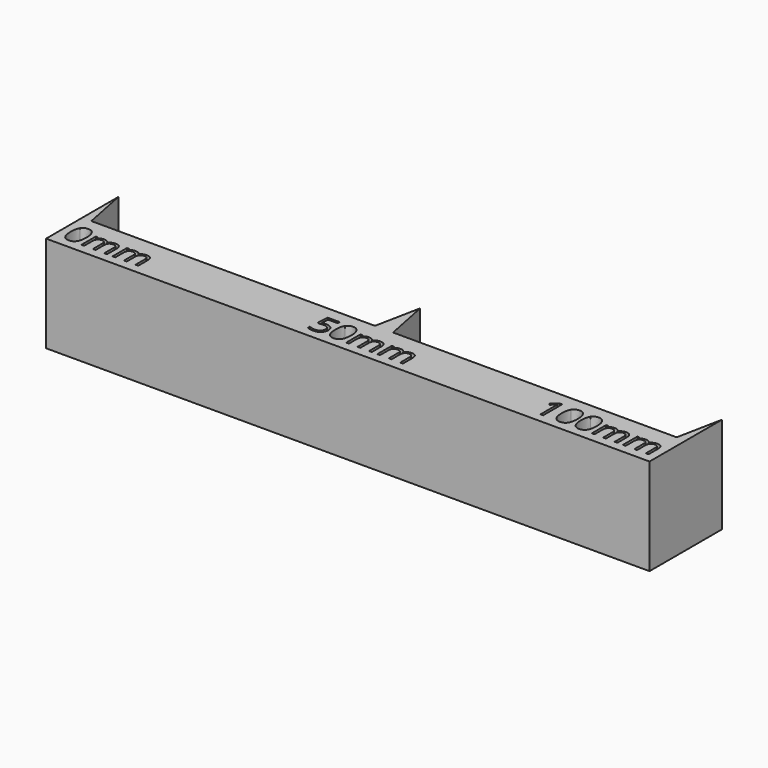
from build123d import *

# Parameters (mm, degrees)
F1_DEPTH = 16


with BuildPart() as f1:
    # F0 (on Top) → F1 (new body)
    with BuildSketch(Plane.XY):
        Polygon((0, 15), (0, 0), (100, 0), (100, 15), (98.5, 7.5), (51.5, 7.5), (50, 15), (48.5, 7.5), (1.5, 7.5), align=None)
        with BuildLine():
            add(Edge.make_bspline(
                [(3.5651041667, 5.0047743056), (3.9001736111, 4.4809027778), (3.9001736111, 3.4887152778)],
                knots=[0, 0, 0, 1, 1, 1], degree=2))
            add(Edge.make_bspline(
                [(3.9001736111, 3.4887152778), (3.9001736111, 2.4600694444), (3.5759548611, 1.9526909722)],
                knots=[0, 0, 0, 1, 1, 1], degree=2))
            add(Edge.make_bspline(
                [(3.5759548611, 1.9526909722), (3.2517361111, 1.4453125), (2.5842013889, 1.4453125)],
                knots=[0, 0, 0, 1, 1, 1], degree=2))
            add(Edge.make_bspline(
                [(2.5842013889, 1.4453125), (1.9444444444, 1.4453125), (1.6106770833, 1.96484375)],
                knots=[0, 0, 0, 1, 1, 1], degree=2))
            add(Edge.make_bspline(
                [(1.6106770833, 1.96484375), (1.2769097222, 2.484375), (1.2769097222, 3.4887152778)],
                knots=[0, 0, 0, 1, 1, 1], degree=2))
            add(Edge.make_bspline(
                [(1.2769097222, 3.4887152778), (1.2769097222, 4.5243055556), (1.5998263889, 5.0264756944)],
                knots=[0, 0, 0, 1, 1, 1], degree=2))
            add(Edge.make_bspline(
                [(1.5998263889, 5.0264756944), (1.9227430556, 5.5286458333), (2.5842013889, 5.5286458333)],
                knots=[0, 0, 0, 1, 1, 1], degree=2))
            add(Edge.make_bspline(
                [(2.5842013889, 5.5286458333), (3.2300347222, 5.5286458333), (3.5651041667, 5.0047743056)],
                knots=[0, 0, 0, 1, 1, 1], degree=2))
        make_face(mode=Mode.SUBTRACT)
        with BuildLine():
            Line((8.8932291667, 1.5), (8.4435763889, 1.5))
            Line((8.4435763889, 1.5), (8.4435763889, 3.4340277778))
            add(Edge.make_bspline(
                [(8.4435763889, 3.4340277778), (8.4435763889, 3.7899305556), (8.2916666667, 3.9674479167)],
                knots=[0, 0, 0, 1, 1, 1], degree=2))
            add(Edge.make_bspline(
                [(8.2916666667, 3.9674479167), (8.1397569444, 4.1449652778), (7.8194444444, 4.1449652778)],
                knots=[0, 0, 0, 1, 1, 1], degree=2))
            add(Edge.make_bspline(
                [(7.8194444444, 4.1449652778), (7.3993055556, 4.1449652778), (7.1983506944, 3.9036458333)],
                knots=[0, 0, 0, 1, 1, 1], degree=2))
            add(Edge.make_bspline(
                [(7.1983506944, 3.9036458333), (6.9973958333, 3.6623263889), (6.9973958333, 3.1605902778)],
                knots=[0, 0, 0, 1, 1, 1], degree=2))
            Line((6.9973958333, 3.1605902778), (6.9973958333, 1.5))
            Line((6.9973958333, 1.5), (6.546875, 1.5))
            Line((6.546875, 1.5), (6.546875, 3.4340277778))
            add(Edge.make_bspline(
                [(6.546875, 3.4340277778), (6.546875, 3.7899305556), (6.3949652778, 3.9674479167)],
                knots=[0, 0, 0, 1, 1, 1], degree=2))
            add(Edge.make_bspline(
                [(6.3949652778, 3.9674479167), (6.2430555556, 4.1449652778), (5.9201388889, 4.1449652778)],
                knots=[0, 0, 0, 1, 1, 1], degree=2))
            add(Edge.make_bspline(
                [(5.9201388889, 4.1449652778), (5.4973958333, 4.1449652778), (5.30078125, 3.8914930556)],
                knots=[0, 0, 0, 1, 1, 1], degree=2))
            add(Edge.make_bspline(
                [(5.30078125, 3.8914930556), (5.1041666667, 3.6380208333), (5.1041666667, 3.0598958333)],
                knots=[0, 0, 0, 1, 1, 1], degree=2))
            Line((5.1041666667, 3.0598958333), (5.1041666667, 1.5))
            Line((5.1041666667, 1.5), (4.6536458333, 1.5))
            Line((4.6536458333, 1.5), (4.6536458333, 4.4730902778))
            Line((4.6536458333, 4.4730902778), (5.0199652778, 4.4730902778))
            Line((5.0199652778, 4.4730902778), (5.0928819444, 4.0659722222))
            Line((5.0928819444, 4.0659722222), (5.1145833333, 4.0659722222))
            add(Edge.make_bspline(
                [(5.1145833333, 4.0659722222), (5.2421875, 4.2829861111), (5.4743923611, 4.4053819444)],
                knots=[0, 0, 0, 1, 1, 1], degree=2))
            add(Edge.make_bspline(
                [(5.4743923611, 4.4053819444), (5.7065972222, 4.5277777778), (5.9939236111, 4.5277777778)],
                knots=[0, 0, 0, 1, 1, 1], degree=2))
            add(Edge.make_bspline(
                [(5.9939236111, 4.5277777778), (6.6909722222, 4.5277777778), (6.9053819444, 4.0225694444)],
                knots=[0, 0, 0, 1, 1, 1], degree=2))
            Line((6.9053819444, 4.0225694444), (6.9270833333, 4.0225694444))
            add(Edge.make_bspline(
                [(6.9270833333, 4.0225694444), (7.0598958333, 4.2560763889), (7.3120659722, 4.3919270833)],
                knots=[0, 0, 0, 1, 1, 1], degree=2))
            add(Edge.make_bspline(
                [(7.3120659722, 4.3919270833), (7.5642361111, 4.5277777778), (7.8871527778, 4.5277777778)],
                knots=[0, 0, 0, 1, 1, 1], degree=2))
            add(Edge.make_bspline(
                [(7.8871527778, 4.5277777778), (8.3914930556, 4.5277777778), (8.6423611111, 4.2686631944)],
                knots=[0, 0, 0, 1, 1, 1], degree=2))
            add(Edge.make_bspline(
                [(8.6423611111, 4.2686631944), (8.8932291667, 4.0095486111), (8.8932291667, 3.4392361111)],
                knots=[0, 0, 0, 1, 1, 1], degree=2))
            Line((8.8932291667, 3.4392361111), (8.8932291667, 1.5))
        make_face(mode=Mode.SUBTRACT)
        with BuildLine():
            Line((14.0607638889, 1.5), (13.6111111111, 1.5))
            Line((13.6111111111, 1.5), (13.6111111111, 3.4340277778))
            add(Edge.make_bspline(
                [(13.6111111111, 3.4340277778), (13.6111111111, 3.7899305556), (13.4592013889, 3.9674479167)],
                knots=[0, 0, 0, 1, 1, 1], degree=2))
            add(Edge.make_bspline(
                [(13.4592013889, 3.9674479167), (13.3072916667, 4.1449652778), (12.9869791667, 4.1449652778)],
                knots=[0, 0, 0, 1, 1, 1], degree=2))
            add(Edge.make_bspline(
                [(12.9869791667, 4.1449652778), (12.5668402778, 4.1449652778), (12.3658854167, 3.9036458333)],
                knots=[0, 0, 0, 1, 1, 1], degree=2))
            add(Edge.make_bspline(
                [(12.3658854167, 3.9036458333), (12.1649305556, 3.6623263889), (12.1649305556, 3.1605902778)],
                knots=[0, 0, 0, 1, 1, 1], degree=2))
            Line((12.1649305556, 3.1605902778), (12.1649305556, 1.5))
            Line((12.1649305556, 1.5), (11.7144097222, 1.5))
            Line((11.7144097222, 1.5), (11.7144097222, 3.4340277778))
            add(Edge.make_bspline(
                [(11.7144097222, 3.4340277778), (11.7144097222, 3.7899305556), (11.5625, 3.9674479167)],
                knots=[0, 0, 0, 1, 1, 1], degree=2))
            add(Edge.make_bspline(
                [(11.5625, 3.9674479167), (11.4105902778, 4.1449652778), (11.0876736111, 4.1449652778)],
                knots=[0, 0, 0, 1, 1, 1], degree=2))
            add(Edge.make_bspline(
                [(11.0876736111, 4.1449652778), (10.6649305556, 4.1449652778), (10.4683159722, 3.8914930556)],
                knots=[0, 0, 0, 1, 1, 1], degree=2))
            add(Edge.make_bspline(
                [(10.4683159722, 3.8914930556), (10.2717013889, 3.6380208333), (10.2717013889, 3.0598958333)],
                knots=[0, 0, 0, 1, 1, 1], degree=2))
            Line((10.2717013889, 3.0598958333), (10.2717013889, 1.5))
            Line((10.2717013889, 1.5), (9.8211805556, 1.5))
            Line((9.8211805556, 1.5), (9.8211805556, 4.4730902778))
            Line((9.8211805556, 4.4730902778), (10.1875, 4.4730902778))
            Line((10.1875, 4.4730902778), (10.2604166667, 4.0659722222))
            Line((10.2604166667, 4.0659722222), (10.2821180556, 4.0659722222))
            add(Edge.make_bspline(
                [(10.2821180556, 4.0659722222), (10.4097222222, 4.2829861111), (10.6419270833, 4.4053819444)],
                knots=[0, 0, 0, 1, 1, 1], degree=2))
            add(Edge.make_bspline(
                [(10.6419270833, 4.4053819444), (10.8741319444, 4.5277777778), (11.1614583333, 4.5277777778)],
                knots=[0, 0, 0, 1, 1, 1], degree=2))
            add(Edge.make_bspline(
                [(11.1614583333, 4.5277777778), (11.8585069444, 4.5277777778), (12.0729166667, 4.0225694444)],
                knots=[0, 0, 0, 1, 1, 1], degree=2))
            Line((12.0729166667, 4.0225694444), (12.0946180556, 4.0225694444))
            add(Edge.make_bspline(
                [(12.0946180556, 4.0225694444), (12.2274305556, 4.2560763889), (12.4796006944, 4.3919270833)],
                knots=[0, 0, 0, 1, 1, 1], degree=2))
            add(Edge.make_bspline(
                [(12.4796006944, 4.3919270833), (12.7317708333, 4.5277777778), (13.0546875, 4.5277777778)],
                knots=[0, 0, 0, 1, 1, 1], degree=2))
            add(Edge.make_bspline(
                [(13.0546875, 4.5277777778), (13.5590277778, 4.5277777778), (13.8098958333, 4.2686631944)],
                knots=[0, 0, 0, 1, 1, 1], degree=2))
            add(Edge.make_bspline(
                [(13.8098958333, 4.2686631944), (14.0607638889, 4.0095486111), (14.0607638889, 3.4392361111)],
                knots=[0, 0, 0, 1, 1, 1], degree=2))
            Line((14.0607638889, 3.4392361111), (14.0607638889, 1.5))
        make_face(mode=Mode.SUBTRACT)
        with BuildLine():
            add(Edge.make_bspline(
                [(42.5911458333, 3.8602430556), (42.9027777778, 3.9227430556), (43.2126736111, 3.9227430556)],
                knots=[0, 0, 0, 1, 1, 1], degree=2))
            add(Edge.make_bspline(
                [(43.2126736111, 3.9227430556), (43.8394097222, 3.9227430556), (44.1987847222, 3.6119791667)],
                knots=[0, 0, 0, 1, 1, 1], degree=2))
            add(Edge.make_bspline(
                [(44.1987847222, 3.6119791667), (44.5581597222, 3.3012152778), (44.5581597222, 2.7612847222)],
                knots=[0, 0, 0, 1, 1, 1], degree=2))
            add(Edge.make_bspline(
                [(44.5581597222, 2.7612847222), (44.5581597222, 2.1458333333), (44.1662326389, 1.7955729167)],
                knots=[0, 0, 0, 1, 1, 1], degree=2))
            add(Edge.make_bspline(
                [(44.1662326389, 1.7955729167), (43.7743055556, 1.4453125), (43.0850694444, 1.4453125)],
                knots=[0, 0, 0, 1, 1, 1], degree=2))
            add(Edge.make_bspline(
                [(43.0850694444, 1.4453125), (42.4149305556, 1.4453125), (42.0625, 1.6597222222)],
                knots=[0, 0, 0, 1, 1, 1], degree=2))
            Line((42.0625, 1.6597222222), (42.0625, 2.09375))
            add(Edge.make_bspline(
                [(42.0625, 2.09375), (42.2517361111, 1.9722222222), (42.5338541667, 1.9027777778)],
                knots=[0, 0, 0, 1, 1, 1], degree=2))
            add(Edge.make_bspline(
                [(42.5338541667, 1.9027777778), (42.8159722222, 1.8333333333), (43.0902777778, 1.8333333333)],
                knots=[0, 0, 0, 1, 1, 1], degree=2))
            add(Edge.make_bspline(
                [(43.0902777778, 1.8333333333), (43.5677083333, 1.8333333333), (43.83203125, 2.05859375)],
                knots=[0, 0, 0, 1, 1, 1], degree=2))
            add(Edge.make_bspline(
                [(43.83203125, 2.05859375), (44.0963541667, 2.2838541667), (44.0963541667, 2.7100694444)],
                knots=[0, 0, 0, 1, 1, 1], degree=2))
            add(Edge.make_bspline(
                [(44.0963541667, 2.7100694444), (44.0963541667, 3.5399305556), (43.0798611111, 3.5399305556)],
                knots=[0, 0, 0, 1, 1, 1], degree=2))
            add(Edge.make_bspline(
                [(43.0798611111, 3.5399305556), (42.8220486111, 3.5399305556), (42.390625, 3.4609375)],
                knots=[0, 0, 0, 1, 1, 1], degree=2))
            Line((42.390625, 3.4609375), (42.1571180556, 3.6102430556))
            Line((42.1571180556, 3.6102430556), (42.3064236111, 5.4661458333))
            Line((42.3064236111, 5.4661458333), (44.2786458333, 5.4661458333))
            Line((44.2786458333, 5.4661458333), (44.2786458333, 5.0512152778))
            Line((44.2786458333, 5.0512152778), (42.6918402778, 5.0512152778))
            Line((42.6918402778, 5.0512152778), (42.5911458333, 3.8602430556))
        make_face(mode=Mode.SUBTRACT)
        with BuildLine():
            add(Edge.make_bspline(
                [(47.4427083333, 5.0047743056), (47.7777777778, 4.4809027778), (47.7777777778, 3.4887152778)],
                knots=[0, 0, 0, 1, 1, 1], degree=2))
            add(Edge.make_bspline(
                [(47.7777777778, 3.4887152778), (47.7777777778, 2.4600694444), (47.4535590278, 1.9526909722)],
                knots=[0, 0, 0, 1, 1, 1], degree=2))
            add(Edge.make_bspline(
                [(47.4535590278, 1.9526909722), (47.1293402778, 1.4453125), (46.4618055556, 1.4453125)],
                knots=[0, 0, 0, 1, 1, 1], degree=2))
            add(Edge.make_bspline(
                [(46.4618055556, 1.4453125), (45.8220486111, 1.4453125), (45.48828125, 1.96484375)],
                knots=[0, 0, 0, 1, 1, 1], degree=2))
            add(Edge.make_bspline(
                [(45.48828125, 1.96484375), (45.1545138889, 2.484375), (45.1545138889, 3.4887152778)],
                knots=[0, 0, 0, 1, 1, 1], degree=2))
            add(Edge.make_bspline(
                [(45.1545138889, 3.4887152778), (45.1545138889, 4.5243055556), (45.4774305556, 5.0264756944)],
                knots=[0, 0, 0, 1, 1, 1], degree=2))
            add(Edge.make_bspline(
                [(45.4774305556, 5.0264756944), (45.8003472222, 5.5286458333), (46.4618055556, 5.5286458333)],
                knots=[0, 0, 0, 1, 1, 1], degree=2))
            add(Edge.make_bspline(
                [(46.4618055556, 5.5286458333), (47.1076388889, 5.5286458333), (47.4427083333, 5.0047743056)],
                knots=[0, 0, 0, 1, 1, 1], degree=2))
        make_face(mode=Mode.SUBTRACT)
        with BuildLine():
            Line((52.7708333333, 1.5), (52.3211805556, 1.5))
            Line((52.3211805556, 1.5), (52.3211805556, 3.4340277778))
            add(Edge.make_bspline(
                [(52.3211805556, 3.4340277778), (52.3211805556, 3.7899305556), (52.1692708333, 3.9674479167)],
                knots=[0, 0, 0, 1, 1, 1], degree=2))
            add(Edge.make_bspline(
                [(52.1692708333, 3.9674479167), (52.0173611111, 4.1449652778), (51.6970486111, 4.1449652778)],
                knots=[0, 0, 0, 1, 1, 1], degree=2))
            add(Edge.make_bspline(
                [(51.6970486111, 4.1449652778), (51.2769097222, 4.1449652778), (51.0759548611, 3.9036458333)],
                knots=[0, 0, 0, 1, 1, 1], degree=2))
            add(Edge.make_bspline(
                [(51.0759548611, 3.9036458333), (50.875, 3.6623263889), (50.875, 3.1605902778)],
                knots=[0, 0, 0, 1, 1, 1], degree=2))
            Line((50.875, 3.1605902778), (50.875, 1.5))
            Line((50.875, 1.5), (50.4244791667, 1.5))
            Line((50.4244791667, 1.5), (50.4244791667, 3.4340277778))
            add(Edge.make_bspline(
                [(50.4244791667, 3.4340277778), (50.4244791667, 3.7899305556), (50.2725694444, 3.9674479167)],
                knots=[0, 0, 0, 1, 1, 1], degree=2))
            add(Edge.make_bspline(
                [(50.2725694444, 3.9674479167), (50.1206597222, 4.1449652778), (49.7977430556, 4.1449652778)],
                knots=[0, 0, 0, 1, 1, 1], degree=2))
            add(Edge.make_bspline(
                [(49.7977430556, 4.1449652778), (49.375, 4.1449652778), (49.1783854167, 3.8914930556)],
                knots=[0, 0, 0, 1, 1, 1], degree=2))
            add(Edge.make_bspline(
                [(49.1783854167, 3.8914930556), (48.9817708333, 3.6380208333), (48.9817708333, 3.0598958333)],
                knots=[0, 0, 0, 1, 1, 1], degree=2))
            Line((48.9817708333, 3.0598958333), (48.9817708333, 1.5))
            Line((48.9817708333, 1.5), (48.53125, 1.5))
            Line((48.53125, 1.5), (48.53125, 4.4730902778))
            Line((48.53125, 4.4730902778), (48.8975694444, 4.4730902778))
            Line((48.8975694444, 4.4730902778), (48.9704861111, 4.0659722222))
            Line((48.9704861111, 4.0659722222), (48.9921875, 4.0659722222))
            add(Edge.make_bspline(
                [(48.9921875, 4.0659722222), (49.1197916667, 4.2829861111), (49.3519965278, 4.4053819444)],
                knots=[0, 0, 0, 1, 1, 1], degree=2))
            add(Edge.make_bspline(
                [(49.3519965278, 4.4053819444), (49.5842013889, 4.5277777778), (49.8715277778, 4.5277777778)],
                knots=[0, 0, 0, 1, 1, 1], degree=2))
            add(Edge.make_bspline(
                [(49.8715277778, 4.5277777778), (50.5685763889, 4.5277777778), (50.7829861111, 4.0225694444)],
                knots=[0, 0, 0, 1, 1, 1], degree=2))
            Line((50.7829861111, 4.0225694444), (50.8046875, 4.0225694444))
            add(Edge.make_bspline(
                [(50.8046875, 4.0225694444), (50.9375, 4.2560763889), (51.1896701389, 4.3919270833)],
                knots=[0, 0, 0, 1, 1, 1], degree=2))
            add(Edge.make_bspline(
                [(51.1896701389, 4.3919270833), (51.4418402778, 4.5277777778), (51.7647569444, 4.5277777778)],
                knots=[0, 0, 0, 1, 1, 1], degree=2))
            add(Edge.make_bspline(
                [(51.7647569444, 4.5277777778), (52.2690972222, 4.5277777778), (52.5199652778, 4.2686631944)],
                knots=[0, 0, 0, 1, 1, 1], degree=2))
            add(Edge.make_bspline(
                [(52.5199652778, 4.2686631944), (52.7708333333, 4.0095486111), (52.7708333333, 3.4392361111)],
                knots=[0, 0, 0, 1, 1, 1], degree=2))
            Line((52.7708333333, 3.4392361111), (52.7708333333, 1.5))
        make_face(mode=Mode.SUBTRACT)
        with BuildLine():
            Line((57.9383680556, 1.5), (57.4887152778, 1.5))
            Line((57.4887152778, 1.5), (57.4887152778, 3.4340277778))
            add(Edge.make_bspline(
                [(57.4887152778, 3.4340277778), (57.4887152778, 3.7899305556), (57.3368055556, 3.9674479167)],
                knots=[0, 0, 0, 1, 1, 1], degree=2))
            add(Edge.make_bspline(
                [(57.3368055556, 3.9674479167), (57.1848958333, 4.1449652778), (56.8645833333, 4.1449652778)],
                knots=[0, 0, 0, 1, 1, 1], degree=2))
            add(Edge.make_bspline(
                [(56.8645833333, 4.1449652778), (56.4444444444, 4.1449652778), (56.2434895833, 3.9036458333)],
                knots=[0, 0, 0, 1, 1, 1], degree=2))
            add(Edge.make_bspline(
                [(56.2434895833, 3.9036458333), (56.0425347222, 3.6623263889), (56.0425347222, 3.1605902778)],
                knots=[0, 0, 0, 1, 1, 1], degree=2))
            Line((56.0425347222, 3.1605902778), (56.0425347222, 1.5))
            Line((56.0425347222, 1.5), (55.5920138889, 1.5))
            Line((55.5920138889, 1.5), (55.5920138889, 3.4340277778))
            add(Edge.make_bspline(
                [(55.5920138889, 3.4340277778), (55.5920138889, 3.7899305556), (55.4401041667, 3.9674479167)],
                knots=[0, 0, 0, 1, 1, 1], degree=2))
            add(Edge.make_bspline(
                [(55.4401041667, 3.9674479167), (55.2881944444, 4.1449652778), (54.9652777778, 4.1449652778)],
                knots=[0, 0, 0, 1, 1, 1], degree=2))
            add(Edge.make_bspline(
                [(54.9652777778, 4.1449652778), (54.5425347222, 4.1449652778), (54.3459201389, 3.8914930556)],
                knots=[0, 0, 0, 1, 1, 1], degree=2))
            add(Edge.make_bspline(
                [(54.3459201389, 3.8914930556), (54.1493055556, 3.6380208333), (54.1493055556, 3.0598958333)],
                knots=[0, 0, 0, 1, 1, 1], degree=2))
            Line((54.1493055556, 3.0598958333), (54.1493055556, 1.5))
            Line((54.1493055556, 1.5), (53.6987847222, 1.5))
            Line((53.6987847222, 1.5), (53.6987847222, 4.4730902778))
            Line((53.6987847222, 4.4730902778), (54.0651041667, 4.4730902778))
            Line((54.0651041667, 4.4730902778), (54.1380208333, 4.0659722222))
            Line((54.1380208333, 4.0659722222), (54.1597222222, 4.0659722222))
            add(Edge.make_bspline(
                [(54.1597222222, 4.0659722222), (54.2873263889, 4.2829861111), (54.51953125, 4.4053819444)],
                knots=[0, 0, 0, 1, 1, 1], degree=2))
            add(Edge.make_bspline(
                [(54.51953125, 4.4053819444), (54.7517361111, 4.5277777778), (55.0390625, 4.5277777778)],
                knots=[0, 0, 0, 1, 1, 1], degree=2))
            add(Edge.make_bspline(
                [(55.0390625, 4.5277777778), (55.7361111111, 4.5277777778), (55.9505208333, 4.0225694444)],
                knots=[0, 0, 0, 1, 1, 1], degree=2))
            Line((55.9505208333, 4.0225694444), (55.9722222222, 4.0225694444))
            add(Edge.make_bspline(
                [(55.9722222222, 4.0225694444), (56.1050347222, 4.2560763889), (56.3572048611, 4.3919270833)],
                knots=[0, 0, 0, 1, 1, 1], degree=2))
            add(Edge.make_bspline(
                [(56.3572048611, 4.3919270833), (56.609375, 4.5277777778), (56.9322916667, 4.5277777778)],
                knots=[0, 0, 0, 1, 1, 1], degree=2))
            add(Edge.make_bspline(
                [(56.9322916667, 4.5277777778), (57.4366319444, 4.5277777778), (57.6875, 4.2686631944)],
                knots=[0, 0, 0, 1, 1, 1], degree=2))
            add(Edge.make_bspline(
                [(57.6875, 4.2686631944), (57.9383680556, 4.0095486111), (57.9383680556, 3.4392361111)],
                knots=[0, 0, 0, 1, 1, 1], degree=2))
            Line((57.9383680556, 3.4392361111), (57.9383680556, 1.5))
        make_face(mode=Mode.SUBTRACT)
        with BuildLine():
            Line((81.1657986111, 5.4661458333), (81.1657986111, 1.5))
            Line((81.1657986111, 1.5), (80.7265625, 1.5))
            Line((80.7265625, 1.5), (80.7265625, 4.3263888889))
            add(Edge.make_bspline(
                [(80.7265625, 4.3263888889), (80.7265625, 4.6796875), (80.7482638889, 4.9939236111)],
                knots=[0, 0, 0, 1, 1, 1], degree=2))
            add(Edge.make_bspline(
                [(80.7482638889, 4.9939236111), (80.6918402778, 4.9366319444), (80.62109375, 4.8745659722)],
                knots=[0, 0, 0, 1, 1, 1], degree=2))
            add(Edge.make_bspline(
                [(80.62109375, 4.8745659722), (80.5503472222, 4.8125), (79.9756944444, 4.3454861111)],
                knots=[0, 0, 0, 1, 1, 1], degree=2))
            Line((79.9756944444, 4.3454861111), (79.7369791667, 4.6545138889))
            Line((79.7369791667, 4.6545138889), (80.7864583333, 5.4661458333))
            Line((80.7864583333, 5.4661458333), (81.1657986111, 5.4661458333))
        make_face(mode=Mode.SUBTRACT)
        with BuildLine():
            add(Edge.make_bspline(
                [(84.9678819444, 5.0047743056), (85.3029513889, 4.4809027778), (85.3029513889, 3.4887152778)],
                knots=[0, 0, 0, 1, 1, 1], degree=2))
            add(Edge.make_bspline(
                [(85.3029513889, 3.4887152778), (85.3029513889, 2.4600694444), (84.9787326389, 1.9526909722)],
                knots=[0, 0, 0, 1, 1, 1], degree=2))
            add(Edge.make_bspline(
                [(84.9787326389, 1.9526909722), (84.6545138889, 1.4453125), (83.9869791667, 1.4453125)],
                knots=[0, 0, 0, 1, 1, 1], degree=2))
            add(Edge.make_bspline(
                [(83.9869791667, 1.4453125), (83.3472222222, 1.4453125), (83.0134548611, 1.96484375)],
                knots=[0, 0, 0, 1, 1, 1], degree=2))
            add(Edge.make_bspline(
                [(83.0134548611, 1.96484375), (82.6796875, 2.484375), (82.6796875, 3.4887152778)],
                knots=[0, 0, 0, 1, 1, 1], degree=2))
            add(Edge.make_bspline(
                [(82.6796875, 3.4887152778), (82.6796875, 4.5243055556), (83.0026041667, 5.0264756944)],
                knots=[0, 0, 0, 1, 1, 1], degree=2))
            add(Edge.make_bspline(
                [(83.0026041667, 5.0264756944), (83.3255208333, 5.5286458333), (83.9869791667, 5.5286458333)],
                knots=[0, 0, 0, 1, 1, 1], degree=2))
            add(Edge.make_bspline(
                [(83.9869791667, 5.5286458333), (84.6328125, 5.5286458333), (84.9678819444, 5.0047743056)],
                knots=[0, 0, 0, 1, 1, 1], degree=2))
        make_face(mode=Mode.SUBTRACT)
        with BuildLine():
            add(Edge.make_bspline(
                [(88.1440972222, 5.0047743056), (88.4791666667, 4.4809027778), (88.4791666667, 3.4887152778)],
                knots=[0, 0, 0, 1, 1, 1], degree=2))
            add(Edge.make_bspline(
                [(88.4791666667, 3.4887152778), (88.4791666667, 2.4600694444), (88.1549479167, 1.9526909722)],
                knots=[0, 0, 0, 1, 1, 1], degree=2))
            add(Edge.make_bspline(
                [(88.1549479167, 1.9526909722), (87.8307291667, 1.4453125), (87.1631944444, 1.4453125)],
                knots=[0, 0, 0, 1, 1, 1], degree=2))
            add(Edge.make_bspline(
                [(87.1631944444, 1.4453125), (86.5234375, 1.4453125), (86.1896701389, 1.96484375)],
                knots=[0, 0, 0, 1, 1, 1], degree=2))
            add(Edge.make_bspline(
                [(86.1896701389, 1.96484375), (85.8559027778, 2.484375), (85.8559027778, 3.4887152778)],
                knots=[0, 0, 0, 1, 1, 1], degree=2))
            add(Edge.make_bspline(
                [(85.8559027778, 3.4887152778), (85.8559027778, 4.5243055556), (86.1788194444, 5.0264756944)],
                knots=[0, 0, 0, 1, 1, 1], degree=2))
            add(Edge.make_bspline(
                [(86.1788194444, 5.0264756944), (86.5017361111, 5.5286458333), (87.1631944444, 5.5286458333)],
                knots=[0, 0, 0, 1, 1, 1], degree=2))
            add(Edge.make_bspline(
                [(87.1631944444, 5.5286458333), (87.8090277778, 5.5286458333), (88.1440972222, 5.0047743056)],
                knots=[0, 0, 0, 1, 1, 1], degree=2))
        make_face(mode=Mode.SUBTRACT)
        with BuildLine():
            Line((93.4722222222, 1.5), (93.0225694444, 1.5))
            Line((93.0225694444, 1.5), (93.0225694444, 3.4340277778))
            add(Edge.make_bspline(
                [(93.0225694444, 3.4340277778), (93.0225694444, 3.7899305556), (92.8706597222, 3.9674479167)],
                knots=[0, 0, 0, 1, 1, 1], degree=2))
            add(Edge.make_bspline(
                [(92.8706597222, 3.9674479167), (92.71875, 4.1449652778), (92.3984375, 4.1449652778)],
                knots=[0, 0, 0, 1, 1, 1], degree=2))
            add(Edge.make_bspline(
                [(92.3984375, 4.1449652778), (91.9782986111, 4.1449652778), (91.77734375, 3.9036458333)],
                knots=[0, 0, 0, 1, 1, 1], degree=2))
            add(Edge.make_bspline(
                [(91.77734375, 3.9036458333), (91.5763888889, 3.6623263889), (91.5763888889, 3.1605902778)],
                knots=[0, 0, 0, 1, 1, 1], degree=2))
            Line((91.5763888889, 3.1605902778), (91.5763888889, 1.5))
            Line((91.5763888889, 1.5), (91.1258680556, 1.5))
            Line((91.1258680556, 1.5), (91.1258680556, 3.4340277778))
            add(Edge.make_bspline(
                [(91.1258680556, 3.4340277778), (91.1258680556, 3.7899305556), (90.9739583333, 3.9674479167)],
                knots=[0, 0, 0, 1, 1, 1], degree=2))
            add(Edge.make_bspline(
                [(90.9739583333, 3.9674479167), (90.8220486111, 4.1449652778), (90.4991319444, 4.1449652778)],
                knots=[0, 0, 0, 1, 1, 1], degree=2))
            add(Edge.make_bspline(
                [(90.4991319444, 4.1449652778), (90.0763888889, 4.1449652778), (89.8797743056, 3.8914930556)],
                knots=[0, 0, 0, 1, 1, 1], degree=2))
            add(Edge.make_bspline(
                [(89.8797743056, 3.8914930556), (89.6831597222, 3.6380208333), (89.6831597222, 3.0598958333)],
                knots=[0, 0, 0, 1, 1, 1], degree=2))
            Line((89.6831597222, 3.0598958333), (89.6831597222, 1.5))
            Line((89.6831597222, 1.5), (89.2326388889, 1.5))
            Line((89.2326388889, 1.5), (89.2326388889, 4.4730902778))
            Line((89.2326388889, 4.4730902778), (89.5989583333, 4.4730902778))
            Line((89.5989583333, 4.4730902778), (89.671875, 4.0659722222))
            Line((89.671875, 4.0659722222), (89.6935763889, 4.0659722222))
            add(Edge.make_bspline(
                [(89.6935763889, 4.0659722222), (89.8211805556, 4.2829861111), (90.0533854167, 4.4053819444)],
                knots=[0, 0, 0, 1, 1, 1], degree=2))
            add(Edge.make_bspline(
                [(90.0533854167, 4.4053819444), (90.2855902778, 4.5277777778), (90.5729166667, 4.5277777778)],
                knots=[0, 0, 0, 1, 1, 1], degree=2))
            add(Edge.make_bspline(
                [(90.5729166667, 4.5277777778), (91.2699652778, 4.5277777778), (91.484375, 4.0225694444)],
                knots=[0, 0, 0, 1, 1, 1], degree=2))
            Line((91.484375, 4.0225694444), (91.5060763889, 4.0225694444))
            add(Edge.make_bspline(
                [(91.5060763889, 4.0225694444), (91.6388888889, 4.2560763889), (91.8910590278, 4.3919270833)],
                knots=[0, 0, 0, 1, 1, 1], degree=2))
            add(Edge.make_bspline(
                [(91.8910590278, 4.3919270833), (92.1432291667, 4.5277777778), (92.4661458333, 4.5277777778)],
                knots=[0, 0, 0, 1, 1, 1], degree=2))
            add(Edge.make_bspline(
                [(92.4661458333, 4.5277777778), (92.9704861111, 4.5277777778), (93.2213541667, 4.2686631944)],
                knots=[0, 0, 0, 1, 1, 1], degree=2))
            add(Edge.make_bspline(
                [(93.2213541667, 4.2686631944), (93.4722222222, 4.0095486111), (93.4722222222, 3.4392361111)],
                knots=[0, 0, 0, 1, 1, 1], degree=2))
            Line((93.4722222222, 3.4392361111), (93.4722222222, 1.5))
        make_face(mode=Mode.SUBTRACT)
        with BuildLine():
            Line((98.6397569444, 1.5), (98.1901041667, 1.5))
            Line((98.1901041667, 1.5), (98.1901041667, 3.4340277778))
            add(Edge.make_bspline(
                [(98.1901041667, 3.4340277778), (98.1901041667, 3.7899305556), (98.0381944444, 3.9674479167)],
                knots=[0, 0, 0, 1, 1, 1], degree=2))
            add(Edge.make_bspline(
                [(98.0381944444, 3.9674479167), (97.8862847222, 4.1449652778), (97.5659722222, 4.1449652778)],
                knots=[0, 0, 0, 1, 1, 1], degree=2))
            add(Edge.make_bspline(
                [(97.5659722222, 4.1449652778), (97.1458333333, 4.1449652778), (96.9448784722, 3.9036458333)],
                knots=[0, 0, 0, 1, 1, 1], degree=2))
            add(Edge.make_bspline(
                [(96.9448784722, 3.9036458333), (96.7439236111, 3.6623263889), (96.7439236111, 3.1605902778)],
                knots=[0, 0, 0, 1, 1, 1], degree=2))
            Line((96.7439236111, 3.1605902778), (96.7439236111, 1.5))
            Line((96.7439236111, 1.5), (96.2934027778, 1.5))
            Line((96.2934027778, 1.5), (96.2934027778, 3.4340277778))
            add(Edge.make_bspline(
                [(96.2934027778, 3.4340277778), (96.2934027778, 3.7899305556), (96.1414930556, 3.9674479167)],
                knots=[0, 0, 0, 1, 1, 1], degree=2))
            add(Edge.make_bspline(
                [(96.1414930556, 3.9674479167), (95.9895833333, 4.1449652778), (95.6666666667, 4.1449652778)],
                knots=[0, 0, 0, 1, 1, 1], degree=2))
            add(Edge.make_bspline(
                [(95.6666666667, 4.1449652778), (95.2439236111, 4.1449652778), (95.0473090278, 3.8914930556)],
                knots=[0, 0, 0, 1, 1, 1], degree=2))
            add(Edge.make_bspline(
                [(95.0473090278, 3.8914930556), (94.8506944444, 3.6380208333), (94.8506944444, 3.0598958333)],
                knots=[0, 0, 0, 1, 1, 1], degree=2))
            Line((94.8506944444, 3.0598958333), (94.8506944444, 1.5))
            Line((94.8506944444, 1.5), (94.4001736111, 1.5))
            Line((94.4001736111, 1.5), (94.4001736111, 4.4730902778))
            Line((94.4001736111, 4.4730902778), (94.7664930556, 4.4730902778))
            Line((94.7664930556, 4.4730902778), (94.8394097222, 4.0659722222))
            Line((94.8394097222, 4.0659722222), (94.8611111111, 4.0659722222))
            add(Edge.make_bspline(
                [(94.8611111111, 4.0659722222), (94.9887152778, 4.2829861111), (95.2209201389, 4.4053819444)],
                knots=[0, 0, 0, 1, 1, 1], degree=2))
            add(Edge.make_bspline(
                [(95.2209201389, 4.4053819444), (95.453125, 4.5277777778), (95.7404513889, 4.5277777778)],
                knots=[0, 0, 0, 1, 1, 1], degree=2))
            add(Edge.make_bspline(
                [(95.7404513889, 4.5277777778), (96.4375, 4.5277777778), (96.6519097222, 4.0225694444)],
                knots=[0, 0, 0, 1, 1, 1], degree=2))
            Line((96.6519097222, 4.0225694444), (96.6736111111, 4.0225694444))
            add(Edge.make_bspline(
                [(96.6736111111, 4.0225694444), (96.8064236111, 4.2560763889), (97.05859375, 4.3919270833)],
                knots=[0, 0, 0, 1, 1, 1], degree=2))
            add(Edge.make_bspline(
                [(97.05859375, 4.3919270833), (97.3107638889, 4.5277777778), (97.6336805556, 4.5277777778)],
                knots=[0, 0, 0, 1, 1, 1], degree=2))
            add(Edge.make_bspline(
                [(97.6336805556, 4.5277777778), (98.1380208333, 4.5277777778), (98.3888888889, 4.2686631944)],
                knots=[0, 0, 0, 1, 1, 1], degree=2))
            add(Edge.make_bspline(
                [(98.3888888889, 4.2686631944), (98.6397569444, 4.0095486111), (98.6397569444, 3.4392361111)],
                knots=[0, 0, 0, 1, 1, 1], degree=2))
            Line((98.6397569444, 3.4392361111), (98.6397569444, 1.5))
        make_face(mode=Mode.SUBTRACT)
    extrude(amount=F1_DEPTH)


solid = f1.part
